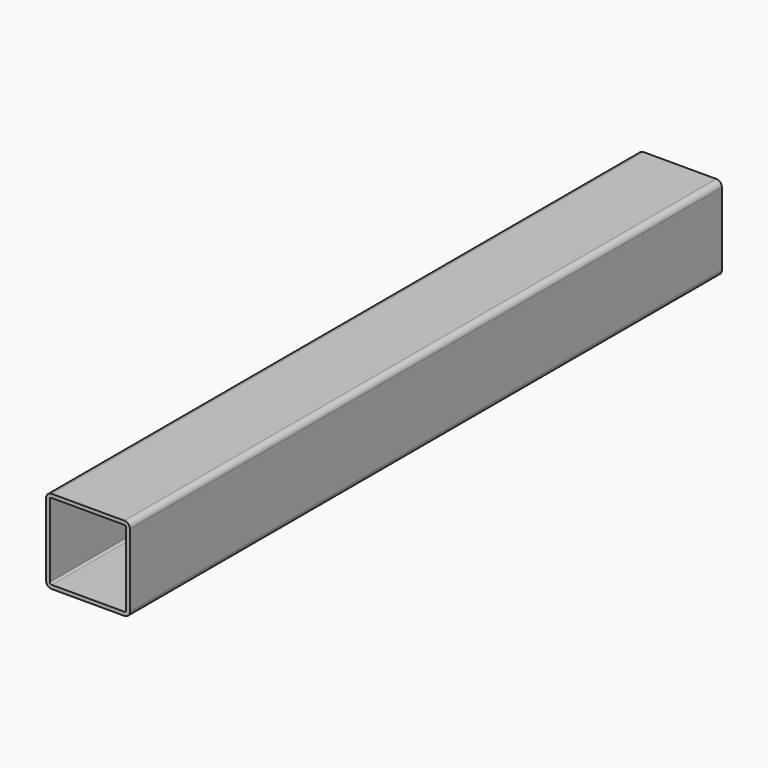
from build123d import *

# Parameters (mm, degrees)
F1_DEPTH = 794


with BuildPart() as f1:
    # F0 (on Front) → F1 (new body)
    with BuildSketch(Plane.XZ):
        with BuildLine():
            ThreePointArc((45, 39), (43.242641, 43.242641), (39, 45))
            Line((39, 45), (-39, 45))
            ThreePointArc((-39, 45), (-43.242641, 43.242641), (-45, 39))
            Line((-45, 39), (-45, -39))
            ThreePointArc((-45, -39), (-43.242641, -43.242641), (-39, -45))
            Line((-39, -45), (39, -45))
            ThreePointArc((39, -45), (43.242641, -43.242641), (45, -39))
            Line((45, -39), (45, 39))
        make_face()
        with BuildLine():
            ThreePointArc((-41, 39), (-40.414214, 40.414214), (-39, 41))
            Line((-39, 41), (39, 41))
            ThreePointArc((39, 41), (40.414214, 40.414214), (41, 39))
            Line((41, 39), (41, -39))
            ThreePointArc((41, -39), (40.414214, -40.414214), (39, -41))
            Line((39, -41), (-39, -41))
            ThreePointArc((-39, -41), (-40.414214, -40.414214), (-41, -39))
            Line((-41, -39), (-41, 39))
        make_face(mode=Mode.SUBTRACT)
    extrude(amount=-F1_DEPTH)


solid = f1.part
